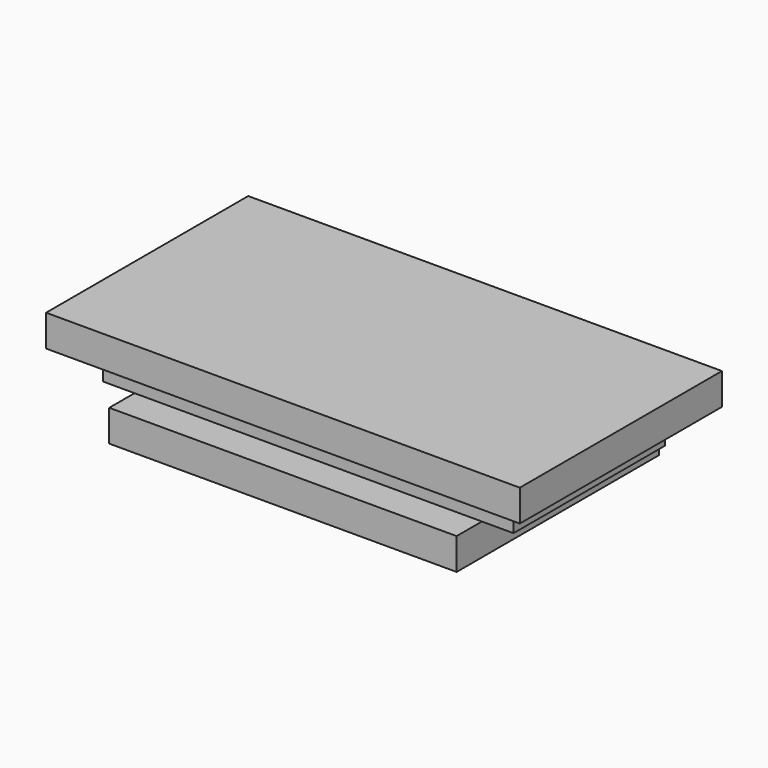
from build123d import *

# Parameters (mm, degrees)
F1_W     = 22
F1_H     = 16
F2_DEPTH = 2
F3_W     = 2
F3_H     = 12
F3_W_2   = 22
F4_DEPTH = 2
F5_W     = 30
F5_H     = 16
F5_W_2   = 26
F5_H_2   = 12
F6_DEPTH = 2


with BuildPart() as f2:
    # F1 (on Top) → F2 (new body)
    with BuildSketch(Plane.XY):
        Rectangle(F1_W, F1_H)
    extrude(amount=F2_DEPTH)

    # F3 (on face) → F4 (join)
    with BuildSketch(Plane.XY.offset(2)):
        with Locations((-12, 0)):
            Rectangle(F3_W, F3_H)
        Rectangle(F3_W_2, F3_H)
        with Locations((12, 0)):
            Rectangle(F3_W, F3_H)
    extrude(amount=F4_DEPTH)

    # F5 (on face) → F6 (join)
    with BuildSketch(Plane.XY.offset(4)):
        Rectangle(F5_W, F5_H)
        Rectangle(F5_W_2, F5_H_2, mode=Mode.SUBTRACT)
        Rectangle(F5_W_2, F5_H_2)
    extrude(amount=F6_DEPTH)


solid = f2.part
